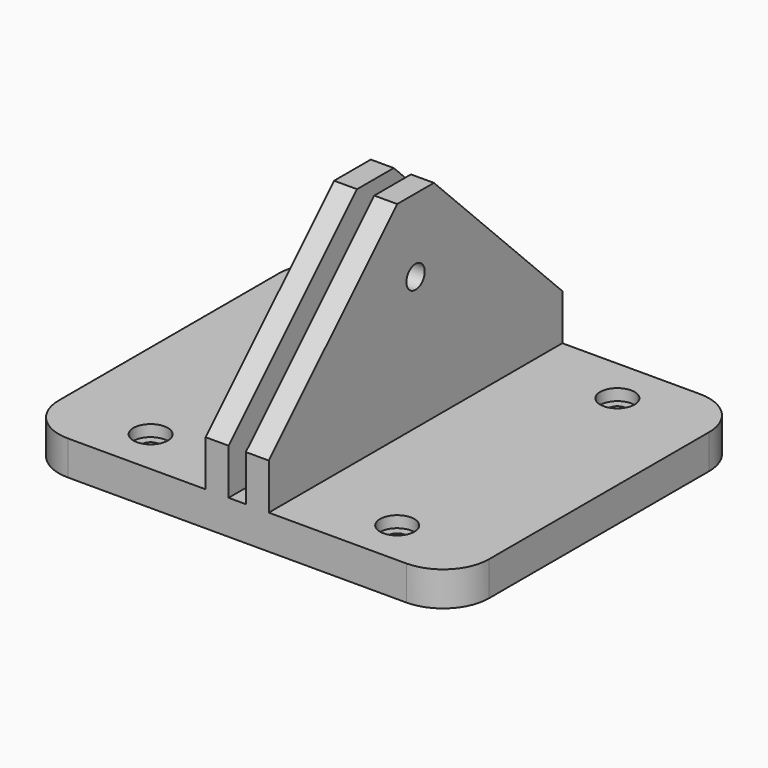
from build123d import *

# Parameters (mm, degrees)
F1_DEPTH       = 101.6
F3_D           = 4.7752
F3_CBORE_D     = 9.525
F3_CBORE_DEPTH = 3.175
F5_D           = 4.7752
F5_CBORE_D     = 9.525
F5_CBORE_DEPTH = 3.175
F7_D           = 6.35
F8_SIZE        = 44.45
F9_R           = 12.7


with BuildPart() as f1:
    # F0 (on Front) → F1 (new body)
    with BuildSketch(Plane.XZ):
        Polygon((0, 9.525), (0, 0), (119.0752, 0), (119.0752, 9.525), (68.2752, 9.525), (68.2752, 66.675), (61.9252, 66.675), (61.9252, 9.525), (57.15, 9.525), (57.15, 66.675), (50.8, 66.675), (50.8, 9.525), align=None)
    extrude(amount=F1_DEPTH)

    # F3 (through all)
    with Locations(Plane.XY.offset(9.525)):
        with Locations((25.4, -12.7), (25.4, -88.9)):
            CounterBoreHole(F3_D / 2, F3_CBORE_D / 2, F3_CBORE_DEPTH)

    # F5 (through all)
    with Locations(Plane.XY.offset(9.525)):
        with Locations((93.6752, -12.7), (93.6752, -88.9)):
            CounterBoreHole(F5_D / 2, F5_CBORE_D / 2, F5_CBORE_DEPTH)

    # F7 (through all)
    with Locations(Plane(origin=(50.8, 0, 0), x_dir=(0, -1, 0), z_dir=(-1, 0, 0))):
        with Locations((50.8, 46.355)):
            Hole(F7_D / 2)

    # F8
    f8_edges = [f1.edges().sort_by_distance(p)[0] for p in [
        (53.975, -101.6, 66.675),
        (65.1002, -101.6, 66.675),
        (53.975, 0, 66.675),
        (65.1002, 0, 66.675),
    ]]
    chamfer(f8_edges, length=F8_SIZE)

    # F9
    f9_edges = [f1.edges().sort_by_distance(p)[0] for p in [
        (0, 0, 4.7625),
        (0, -101.6, 4.7625),
        (119.0752, -101.6, 4.7625),
        (119.0752, 0, 4.7625),
    ]]
    fillet(f9_edges, radius=F9_R)


solid = f1.part
